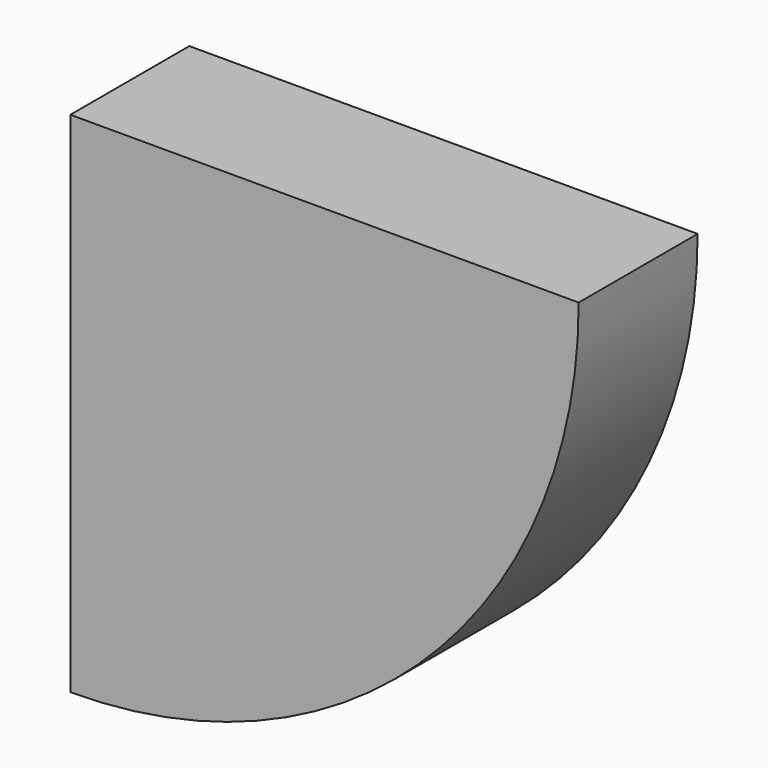
from build123d import *

# Parameters (mm, degrees)
F0_W     = 22.051176
F0_H     = 75.391174
F1_ANGLE = 90


with BuildPart() as f1:
    # F0 (on Right) → F1 (revolve)
    with BuildSketch(Plane.YZ):
        Rectangle(F0_W, F0_H)
    revolve(axis=Axis((0, 0, 37.695587), (0, -1, 0)), revolution_arc=F1_ANGLE)


solid = f1.part
